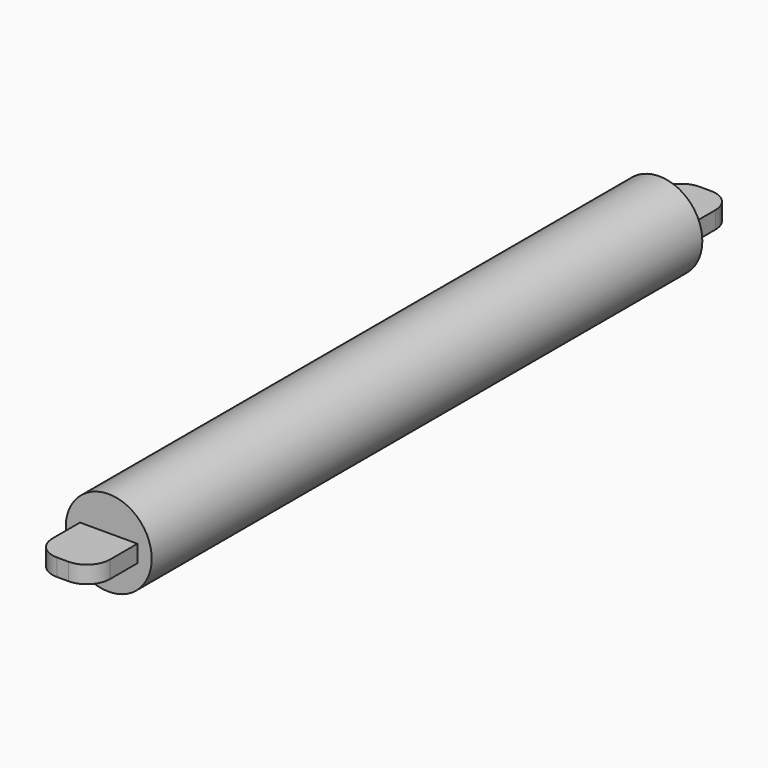
from build123d import *

# Parameters (mm, degrees)
SKETCH_R     = 7.5
PAD_DEPTH    = 60
SKETCH001_W  = 5
SKETCH001_H  = 100
POCKET_DEPTH = 4.001
SKETCH002_W  = 10
SKETCH002_H  = 10
PAD001_DEPTH = 1.5
FILLET_R     = 4


with BuildPart() as part:
    # Sketch → Pad (new body, symmetric)
    with BuildSketch(Plane.XZ):
        Circle(SKETCH_R)
    extrude(amount=PAD_DEPTH, both=True)

    # Sketch001 → Pocket (cut, through all)
    with BuildSketch(Plane.XY.offset(-3.5)):
        Rectangle(SKETCH001_W, SKETCH001_H)
    extrude(amount=-POCKET_DEPTH, mode=Mode.SUBTRACT)

    # Sketch002 → Pad001 (join, symmetric)
    with BuildSketch(Plane.XY):
        with Locations((0, -65)):
            Rectangle(SKETCH002_W, SKETCH002_H)
        with Locations((0, 65)):
            Rectangle(SKETCH002_W, SKETCH002_H)
    extrude(amount=PAD001_DEPTH, both=True)

    # Fillet
    fillet_edges = [part.edges().sort_by_distance(p)[0] for p in [
        (-5, 70, 0),
        (5, 70, 0),
        (5, -70, 0),
        (-5, -70, 0),
    ]]
    fillet(fillet_edges, radius=FILLET_R)


solid = part.part
